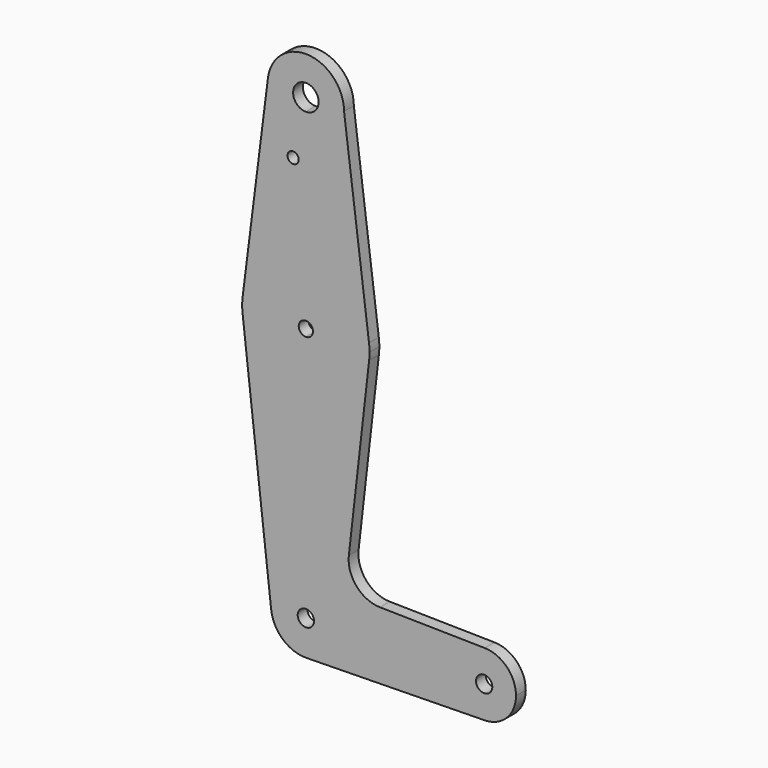
from build123d import *

# Parameters (mm, degrees)
F0_R     = 1.397
F1_DEPTH = 3.048


with BuildPart() as f1:
    # F0 (on Front) → F1 (new body)
    with BuildSketch(Plane.XZ):
        with BuildLine():
            ThreePointArc((3.175, 66.675), (-2.245064, 68.920064), (0, 63.5))
            ThreePointArc((0, 63.5), (2.245064, 64.429936), (3.175, 66.675))
        make_face()
        with BuildLine():
            ThreePointArc((0, 57.15), (6.735192, 59.939808), (9.525, 66.675))
            ThreePointArc((9.525, 66.675), (0.596483, 76.181305), (-9.450293, 67.865625))
            ThreePointArc((-9.450293, 67.865625), (-7.14375, 60.374805), (0, 57.15))
        make_face()
        with BuildLine():
            ThreePointArc((3.175, 66.675), (2.245064, 64.429936), (0, 63.5))
            ThreePointArc((0, 63.5), (-2.245064, 68.920064), (3.175, 66.675))
        make_face(mode=Mode.SUBTRACT)
        with BuildLine():
            Line((15.747457, 17.883289), (9.525, 66.675))
            ThreePointArc((9.525, 66.675), (6.735192, 59.939808), (0, 57.15))
            Line((0, 57.15), (0, 31.75))
            ThreePointArc((0, 31.75), (10.491283, 27.789219), (15.747457, 17.883289))
        make_face()
        with BuildLine():
            ThreePointArc((0, 57.15), (-7.14375, 60.374805), (-9.450293, 67.865625))
            Line((-9.450293, 67.865625), (-15.750488, 17.859375))
            ThreePointArc((-15.750488, 17.859375), (-10.500326, 27.78125), (0, 31.75))
            Line((0, 31.75), (0, 57.15))
        make_face()
        with Locations((-3.175, 52.4002)):
            Circle(F0_R, mode=Mode.SUBTRACT)
        with BuildLine():
            ThreePointArc((15.875, 15.875), (15.843082, 16.881168), (15.747457, 17.883289))
            ThreePointArc((15.747457, 17.883289), (10.491283, 27.789219), (0, 31.75))
            Line((0, 31.75), (0, 17.653))
            ThreePointArc((0, 17.653), (1.257236, 17.132236), (1.778, 15.875))
            ThreePointArc((1.778, 15.875), (1.257236, 14.617764), (0, 14.097))
            Line((0, 14.097), (0, 0))
            ThreePointArc((0, 0), (10.572083, 4.03242), (15.77332, 14.081125))
            ThreePointArc((15.77332, 14.081125), (15.84956, 14.976623), (15.875, 15.875))
        make_face()
        with BuildLine():
            ThreePointArc((0, 31.75), (-10.500326, 27.78125), (-15.750488, 17.859375))
            ThreePointArc((-15.750488, 17.859375), (-15.875, 15.875), (-15.750488, 13.890625))
            ThreePointArc((-15.750488, 13.890625), (-10.500326, 3.96875), (0, 0))
            Line((0, 0), (0, 14.097))
            ThreePointArc((0, 14.097), (-1.778, 15.875), (0, 17.653))
            Line((0, 17.653), (0, 31.75))
        make_face()
        with BuildLine():
            ThreePointArc((0, 0), (-10.500326, 3.96875), (-15.750488, 13.890625))
            Line((-15.750488, 13.890625), (-8.643798, -48.607884))
            ThreePointArc((-8.643798, -48.607884), (-6.48968, -41.831439), (0, -38.9255))
            Line((0, -38.9255), (0, 0))
        make_face()
        with BuildLine():
            Line((10.715191, -30.394381), (15.77332, 14.081125))
            ThreePointArc((15.77332, 14.081125), (10.572083, 4.03242), (0, 0))
            Line((0, 0), (0, -38.9255))
            ThreePointArc((0, -38.9255), (0.148885, -38.926774), (0.297726, -38.930596))
            ThreePointArc((0.297726, -38.930596), (6.255852, -41.579703), (8.6995, -47.625))
            Line((8.6995, -47.625), (36.5125, -47.625))
            ThreePointArc((36.5125, -47.625), (38.885575, -41.964516), (44.585844, -39.688663))
            Line((44.585844, -39.688663), (18.478408, -39.241789))
            ThreePointArc((18.478408, -39.241789), (12.638616, -36.536307), (10.715191, -30.394381))
        make_face()
        with BuildLine():
            ThreePointArc((0, -38.9255), (-6.48968, -41.831439), (-8.643798, -48.607884))
            ThreePointArc((-8.643798, -48.607884), (-5.793561, -54.11468), (0, -56.3245))
            Line((0, -56.3245), (0.297726, -56.319404))
            ThreePointArc((0.297726, -56.319404), (6.255852, -53.670297), (8.6995, -47.625))
            Line((8.6995, -47.625), (2.032, -47.625))
            ThreePointArc((2.032, -47.625), (-1.436841, -49.061841), (0, -45.593))
            Line((0, -45.593), (0, -38.9255))
        make_face()
        with BuildLine():
            Line((0.297726, -56.319404), (0, -56.3245))
            ThreePointArc((0, -56.3245), (0.148885, -56.323226), (0.297726, -56.319404))
        make_face()
        with BuildLine():
            ThreePointArc((8.6995, -47.625), (6.255852, -53.670297), (0.297726, -56.319404))
            Line((0.297726, -56.319404), (44.585844, -55.561337))
            ThreePointArc((44.585844, -55.561337), (38.885575, -53.285484), (36.5125, -47.625))
            Line((36.5125, -47.625), (8.6995, -47.625))
        make_face()
        with BuildLine():
            ThreePointArc((46.482, -47.625), (44.45, -45.593), (42.418, -47.625))
            ThreePointArc((42.418, -47.625), (44.45, -49.657), (46.482, -47.625))
        make_face()
        with BuildLine():
            ThreePointArc((52.3875, -47.625), (50.110484, -42.060575), (44.585844, -39.688663))
            ThreePointArc((44.585844, -39.688663), (38.885575, -41.964516), (36.5125, -47.625))
            ThreePointArc((36.5125, -47.625), (38.885575, -53.285484), (44.585844, -55.561337))
            ThreePointArc((44.585844, -55.561337), (50.110484, -53.189425), (52.3875, -47.625))
        make_face()
        with BuildLine():
            ThreePointArc((46.482, -47.625), (44.45, -49.657), (42.418, -47.625))
            ThreePointArc((42.418, -47.625), (44.45, -45.593), (46.482, -47.625))
        make_face(mode=Mode.SUBTRACT)
        with BuildLine():
            Line((0.297726, -38.930596), (0, -38.9255))
            Line((0, -38.9255), (0, -45.593))
            ThreePointArc((0, -45.593), (1.436841, -46.188159), (2.032, -47.625))
            Line((2.032, -47.625), (8.6995, -47.625))
            ThreePointArc((8.6995, -47.625), (6.255852, -41.579703), (0.297726, -38.930596))
        make_face()
    extrude(amount=F1_DEPTH)


solid = f1.part
